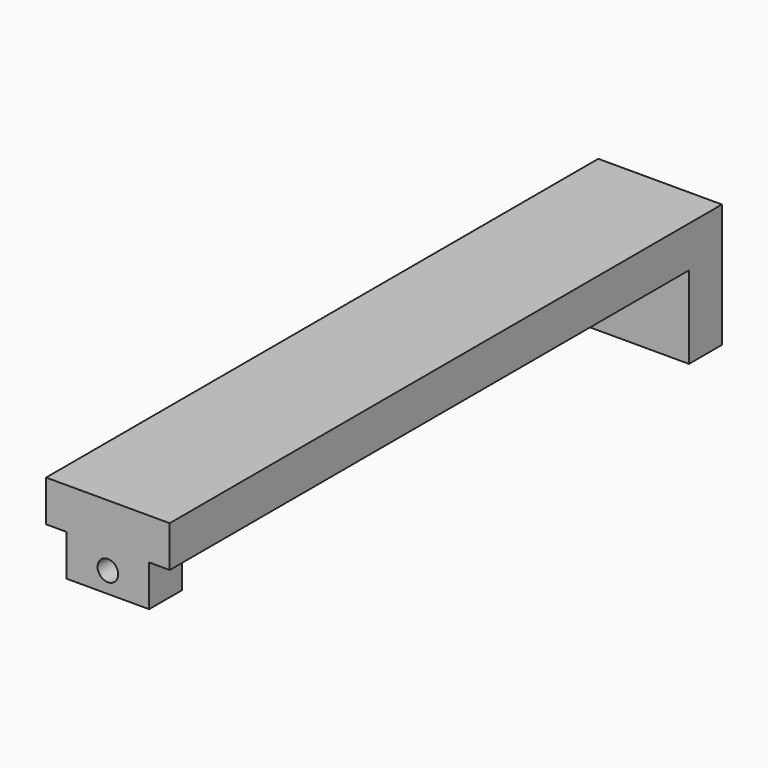
from build123d import *

# Parameters (mm, degrees)
F0_W     = 4.7625
F0_H     = 26.590625
F1_DEPTH = 4.7625
F3_DEPTH = 3.175
F4_DEPTH = 1.5875
F5_R     = 0.396875
F6_DEPTH = 1.5885


with BuildPart() as f1:
    # F0 (on Top) → F1 (new body)
    with BuildSketch(Plane.XY):
        Rectangle(F0_W, F0_H)
    extrude(amount=F1_DEPTH)

    # F2 (on face) → F3 (cut)
    with BuildSketch(Plane(origin=(0, 0, 0), x_dir=(1, 0, 0), z_dir=(0, 0, -1))):
        Polygon((-2.38125, -11.7078125), (2.38125, -11.7078125), (2.38125, 13.2953125), (1.5875, 13.2953125), (1.5875, 11.7078125), (-1.5875, 11.7078125), (-1.5875, 13.2953125), (-2.38125, 13.2953125), align=None)
    extrude(amount=-F3_DEPTH, mode=Mode.SUBTRACT)

    # F4 (cut): a face of the model
    f4_faces = [f1.faces().sort_by_distance(p)[0] for p in [
        (0, -12.5015625, 0),
    ]]
    extrude(f4_faces, amount=-F4_DEPTH, mode=Mode.SUBTRACT)

    # F5 (on face) → F6 (cut, through all)
    with BuildSketch(Plane(origin=(0, -11.7078125, 0), x_dir=(-1, 0, 0), z_dir=(0, 1, 0))):
        with Locations((0, 2.38125)):
            Circle(F5_R)
    extrude(amount=-F6_DEPTH, mode=Mode.SUBTRACT)


solid = f1.part
